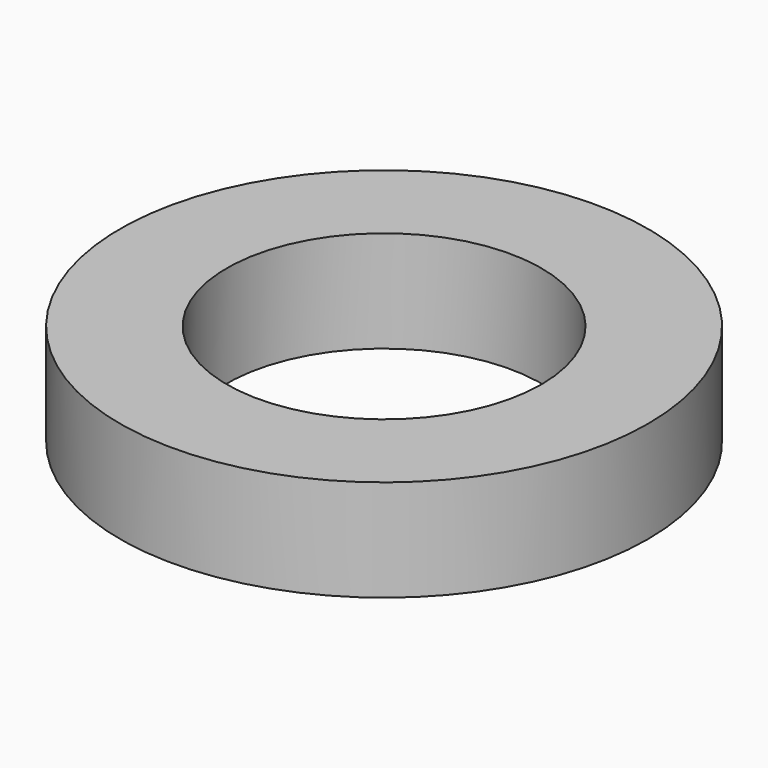
from build123d import *

# Parameters (mm, degrees)
CYLINDER001_R     = 1.55
CYLINDER001_DEPTH = 1
CYLINDER_R        = 2.6
CYLINDER_DEPTH    = 1


with BuildPart() as cylinder001:
    # Cylinder001 → Cylinder001 (new body)
    with BuildSketch(Plane.XY):
        Circle(CYLINDER001_R)
    extrude(amount=CYLINDER001_DEPTH)


with BuildPart() as cut:
    # Cylinder → Cylinder (new body)
    with BuildSketch(Plane.XY):
        Circle(CYLINDER_R)
    extrude(amount=CYLINDER_DEPTH)

    # Cut: cut Cylinder001
    add(cylinder001.part, mode=Mode.SUBTRACT)


solid = cut.part
